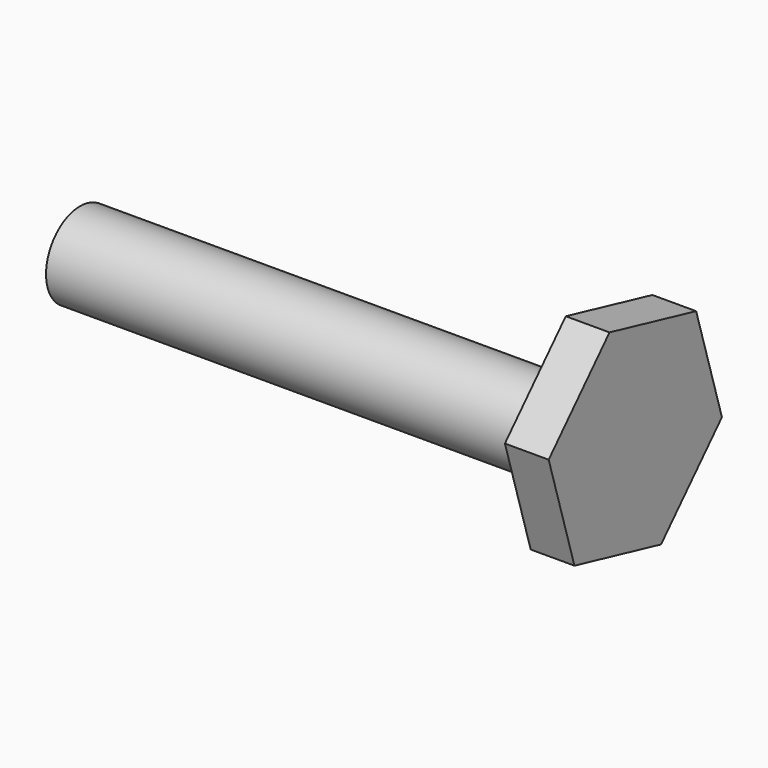
from build123d import *

# Parameters (mm, degrees)
F1_DEPTH  = 29.811595
F2_R      = 29.029184
F3_DEPTH  = 71.004875
F3_FACE_R = 29.029184
F4_DEPTH  = 292.082846


with BuildPart() as f1:
    # F0 (on Right) → F1 (new body)
    with BuildSketch(Plane.YZ):
        Polygon((-73.794099, 17.247879), (-51.834151, -55.283625), (21.959948, -72.531504), (73.794099, -17.247879), (51.834151, 55.283625), (-21.959948, 72.531504), align=None)
    extrude(amount=F1_DEPTH)

    # F2 (on Right) → F3 (join)
    with BuildSketch(Plane.YZ):
        with Locations((18.193632, -24.816409)):
            Circle(F2_R)
    extrude(amount=-F3_DEPTH)

    # F3_face (on face) → F4 (join)
    with BuildSketch(Plane(origin=(-71.004875, 18.193632, -24.816409), x_dir=(0, 1, 0), z_dir=(-1, 0, 0))):
        Circle(F3_FACE_R)
    extrude(amount=F4_DEPTH)


solid = f1.part
